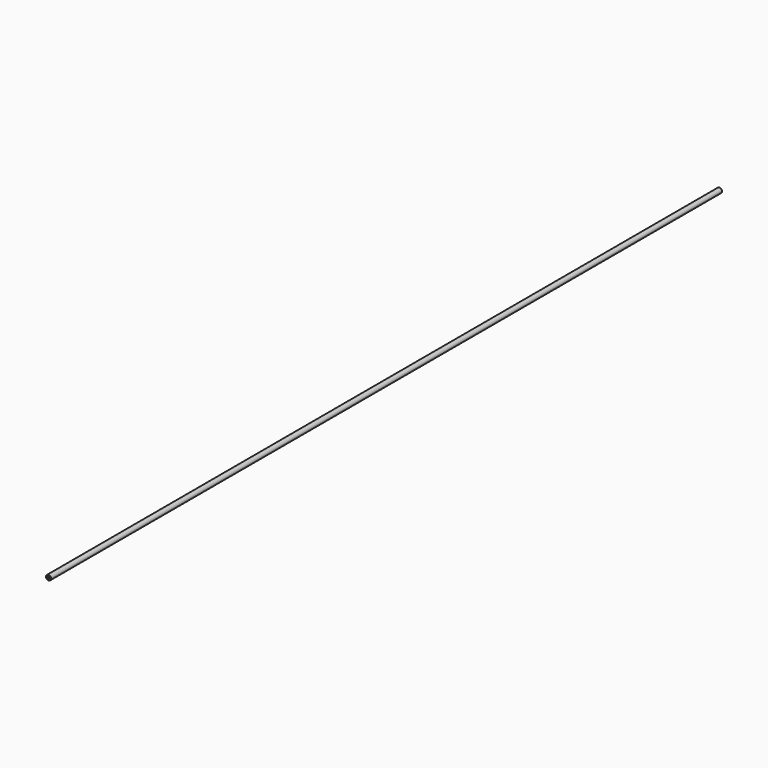
from build123d import *

# Parameters (mm, degrees)
F0_R     = 1.2075
F0_R_2   = 1.2
F0_R_3   = 1.05
F0_R_4   = 0.4064
F0_R_5   = 0.2205357301
F0_R_6   = 0.08001
F1_DEPTH = 405


with BuildPart() as f1:
    # F0 (on Front) → F1 (new body)
    with BuildSketch(Plane.XZ):
        with Locations((0, 0.2878)):
            Circle(F0_R)
        with Locations((0, 0.2878)):
            Circle(F0_R_2, mode=Mode.SUBTRACT)
        with Locations((0, 0.2878)):
            Circle(F0_R_2)
        with Locations((0, 0.2878)):
            Circle(F0_R_3, mode=Mode.SUBTRACT)
        with Locations((0, 0.2878)):
            Circle(F0_R_3)
        with BuildLine():
            add(Edge.make_bspline(
                [(0.2313024888, -0.5588), (0.2313024888, -0.3679270245), (-0.1156512444, -0.4633635122), (-0.4626049777, -0.5588), (-0.1156512444, -0.6542364878), (0.2313024888, -0.7496729755), (0.2313024888, -0.5588)],
                knots=[0, 0, 0, 2.0943951024, 2.0943951024, 4.1887902048, 4.1887902048, 6.2831853072, 6.2831853072, 6.2831853072], degree=2, weights=[1, 0.5, 1, 0.5, 1, 0.5, 1]))
        make_face(mode=Mode.SUBTRACT)
        Circle(F0_R_4, mode=Mode.SUBTRACT)
        with Locations((-0.5588, 0.4191)):
            Circle(F0_R_5, mode=Mode.SUBTRACT)
        with Locations((0, 0.8382)):
            Circle(F0_R_4, mode=Mode.SUBTRACT)
        with Locations((0.5588, 0.4191)):
            Circle(F0_R_5, mode=Mode.SUBTRACT)
        with Locations((-0.5588, 0.4191)):
            Circle(F0_R_5)
        with Locations((-0.65151, 0.318008)):
            Circle(F0_R_6, mode=Mode.SUBTRACT)
        with Locations((-0.65151, 0.51181)):
            Circle(F0_R_6, mode=Mode.SUBTRACT)
        with Locations((-0.46609, 0.4191)):
            Circle(F0_R_6, mode=Mode.SUBTRACT)
        with Locations((0.5588, 0.4191)):
            Circle(F0_R_5)
        with Locations((0.46609, 0.4191)):
            Circle(F0_R_6, mode=Mode.SUBTRACT)
        with Locations((0.65151, 0.318008)):
            Circle(F0_R_6, mode=Mode.SUBTRACT)
        with Locations((0.65151, 0.51181)):
            Circle(F0_R_6, mode=Mode.SUBTRACT)
        with BuildLine():
            add(Edge.make_bspline(
                [(0.2313024888, -0.5588), (0.2313024888, -0.3679270245), (-0.1156512444, -0.4633635122), (-0.4626049777, -0.5588), (-0.1156512444, -0.6542364878), (0.2313024888, -0.7496729755), (0.2313024888, -0.5588)],
                knots=[0, 0, 0, 2.0943951024, 2.0943951024, 4.1887902048, 4.1887902048, 6.2831853072, 6.2831853072, 6.2831853072], degree=2, weights=[1, 0.5, 1, 0.5, 1, 0.5, 1]))
        make_face()
        with Locations((-0.09271, -0.5588)):
            Circle(F0_R_6, mode=Mode.SUBTRACT)
        with Locations((0.09271, -0.5588)):
            Circle(F0_R_6, mode=Mode.SUBTRACT)
    extrude(amount=F1_DEPTH)


solid = f1.part
